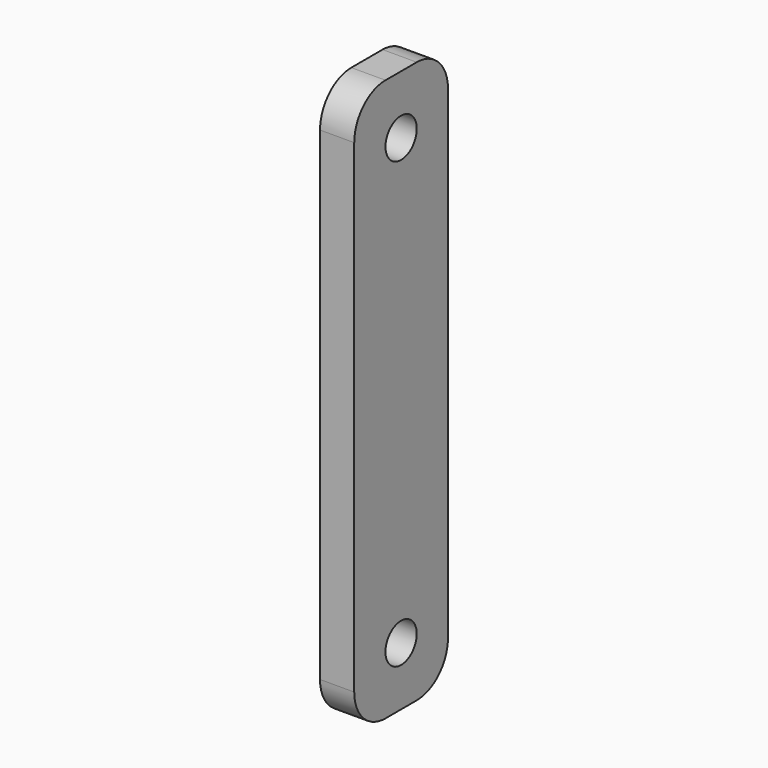
from build123d import *

# Parameters (mm, degrees)
F0_R     = 7.25
F1_DEPTH = 12.7


with BuildPart() as f1:
    # F0 (on Right) → F1 (new body)
    with BuildSketch(Plane.YZ):
        with BuildLine():
            Line((7.25, 21.75), (-7.25, 21.75))
            ThreePointArc((-7.25, 21.75), (-17.503048, 17.503048), (-21.75, 7.25))
            Line((-21.75, 7.25), (-21.75, -172.35))
            ThreePointArc((-21.75, -172.35), (-17.503048, -182.603048), (-7.25, -186.85))
            Line((-7.25, -186.85), (7.25, -186.85))
            ThreePointArc((7.25, -186.85), (17.503048, -182.603048), (21.75, -172.35))
            Line((21.75, -172.35), (21.75, 7.25))
            ThreePointArc((21.75, 7.25), (17.503048, 17.503048), (7.25, 21.75))
        make_face()
        with Locations((0, -165.1)):
            Circle(F0_R, mode=Mode.SUBTRACT)
        Circle(F0_R, mode=Mode.SUBTRACT)
    extrude(amount=F1_DEPTH)


solid = f1.part
